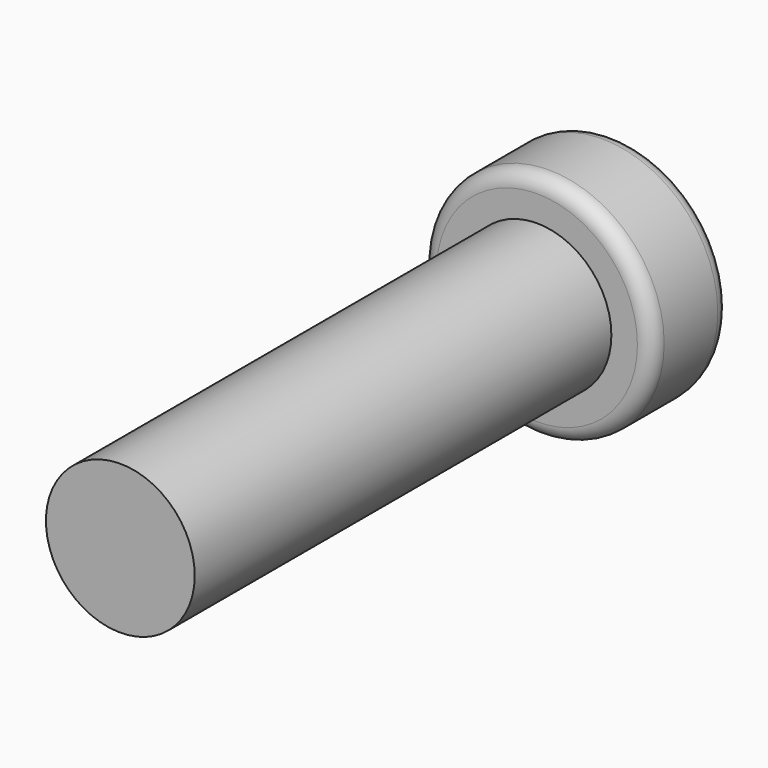
from build123d import *

# Parameters (mm, degrees)
FILLET_R     = 0.2
POCKET_DEPTH = 0.5
FILLET001_R  = 0.05


with BuildPart() as part:
    # Sketch → Revolution (revolve)
    with BuildSketch(Plane.XY):
        Polygon((0, 0), (0, 8.3), (1.55, 8.3), (1.55, 7), (1, 7), (1, 0), align=None)
    revolve(axis=Axis((0, 0, 0), (0, 1, 0)))

    # Fillet
    fillet_edges = [part.edges().sort_by_distance(p)[0] for p in [
        (-1.55, 8.3, 0),
        (-1.55, 7, 0),
    ]]
    fillet(fillet_edges, radius=FILLET_R)

    # Sketch001 (on Face1 of Fillet) → Pocket (cut)
    with BuildSketch(Plane(origin=(0, 8.3, 0), x_dir=(-1, 0, 0), z_dir=(0, 1, 0))):
        Polygon((0, 1), (0.3, 1), (0.3, 0.3), (1, 0.3), (1, -0.3), (0.3, -0.3), (0.3, -1), (0, -1), align=None)
    pocket = extrude(amount=-POCKET_DEPTH, mode=Mode.SUBTRACT)

    # Mirrored: Pocket across Sketch001 V_Axis
    add(pocket.mirror(Plane(origin=(0, 8.3, 0), x_dir=(0, 1, 0), z_dir=(-1, 0, 0))), mode=Mode.SUBTRACT)

    # Fillet001
    fillet001_edges = [part.edges().sort_by_distance(p)[0] for p in [
        (-0.65, 8.3, 0.3),
        (-1, 8.3, 0),
        (-0.65, 8.3, -0.3),
        (-0.3, 8.3, -0.65),
        (-0.15, 8.3, -1),
        (0.15, 8.3, -1),
        (0.3, 8.3, -0.65),
        (0.65, 8.3, -0.3),
        (0.65, 8.3, 0.3),
        (1, 8.3, 0),
        (0.3, 8.3, 0.65),
        (-0.3, 8.3, 0.65),
        (-0.15, 8.3, 1),
        (0.15, 8.3, 1),
    ]]
    fillet(fillet001_edges, radius=FILLET001_R)


solid = part.part
